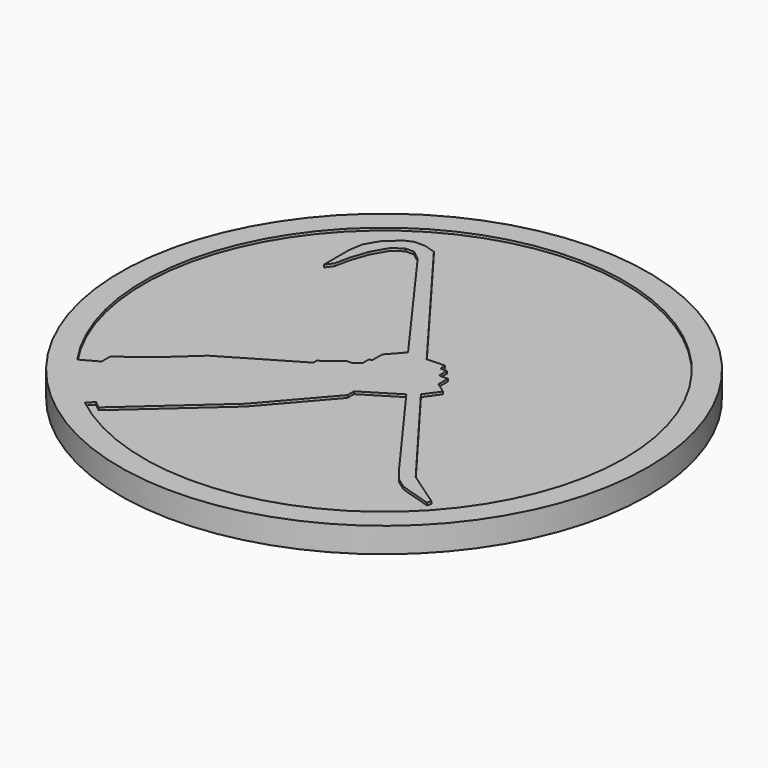
from build123d import *

# Parameters (mm, degrees)
F0_R     = 73.835319
F1_DEPTH = 7
F2_DEPTH = 6.3


with BuildPart() as f1:
    # F0 (on Top) → F1 (new body)
    with BuildSketch(Plane.XY):
        Circle(F0_R)
        with BuildLine():
            ThreePointArc((-55.352281, -38.118447), (-19.959771, 64.175529), (67.20782, 0))
            ThreePointArc((67.20782, 0), (29.467148, -60.403462), (-41.368183, -52.967579))
            ThreePointArc((-41.368183, -52.967579), (-48.926845, -46.076619), (-55.352281, -38.118447))
        make_face(mode=Mode.SUBTRACT)
        with BuildLine():
            Line((-50.618433, -35.51409), (-55.352281, -38.118447))
            ThreePointArc((-55.352281, -38.118447), (-48.926845, -46.076619), (-41.368183, -52.967579))
            Line((-41.368183, -52.967579), (-39.555106, -51.21921))
            Line((-39.555106, -51.21921), (-37.567016, -52.8697))
            Line((-37.567016, -52.8697), (-13.603393, -31.458031))
            Line((-13.603393, -31.458031), (1.234484, -14.347686))
            Line((1.234484, -14.347686), (1.234484, -12.075218))
            Line((1.234484, -12.075218), (11.05952, -6.03984))
            Line((11.05952, -6.03984), (32.11331, -34.933571))
            Line((32.11331, -34.933571), (34.920476, -38.40911))
            Line((34.920476, -38.40911), (37.861317, -40.547904))
            Line((37.861317, -40.547904), (46.550162, -43.221395))
            Line((46.550162, -43.221395), (46.899657, -42.085539))
            Line((46.899657, -42.085539), (37.076384, -35.29954))
            Line((37.076384, -35.29954), (13.533317, -4.032719))
            Line((13.533317, -4.032719), (16.463503, 0))
            Line((16.463503, 0), (13.533317, 2.129083))
            Line((13.533317, 2.129083), (13.533317, 5.39033))
            Line((13.533317, 5.39033), (11.05952, 5.39033))
            Line((11.05952, 5.39033), (11.05952, 8.130658))
            Line((11.05952, 8.130658), (9.254914, 8.130658))
            Line((9.254914, 8.130658), (9.188076, 9.868428))
            Line((9.188076, 9.868428), (4.174984, 9.675617))
            Line((4.174984, 9.675617), (-26.369359, 50.371822))
            Line((-26.369359, 50.371822), (-29.577548, 51.374383))
            Line((-29.577548, 51.374383), (-32.652061, 51.374383))
            Line((-32.652061, 51.374383), (-34.924529, 50.371822))
            Line((-34.924529, 50.371822), (-38.667418, 46.896283))
            Line((-38.667418, 46.896283), (-40.739372, 43.287069))
            Line((-40.739372, 43.287069), (-41.34091, 39.477345))
            Line((-41.34091, 39.477345), (-41.34091, 30.587986))
            Line((-41.34091, 30.587986), (-39.870489, 32.593105))
            Line((-39.870489, 32.593105), (-39.068446, 36.536504))
            Line((-39.068446, 36.536504), (-37.397511, 41.549303))
            Line((-37.397511, 41.549303), (-34.924529, 45.826886))
            Line((-34.924529, 45.826886), (-32.184202, 47.69833))
            Line((-32.184202, 47.69833), (-29.77806, 47.69833))
            Line((-29.77806, 47.69833), (-27.10457, 45.626376))
            Line((-27.10457, 45.626376), (-1.038028, 9.675617))
            Line((-1.038028, 9.675617), (-4.847753, 5.39033))
            Line((-4.847753, 5.39033), (-4.847753, 1.847953))
            Line((-4.847753, 1.847953), (-5.6498, 1.847953))
            Line((-5.6498, 1.847953), (-5.6498, -0.491352))
            Line((-5.6498, -0.491352), (-7.488666, -1.871504))
            Line((-7.488666, -1.871504), (-8.85799, -1.871504))
            Line((-8.85799, -1.871504), (-14.18264, -5.867895))
            Line((-14.18264, -5.867895), (-14.18264, -7.041406))
            Line((-14.18264, -7.041406), (-34.189317, -18.804768))
            Line((-34.189317, -18.804768), (-42.610817, -26.491057))
            Line((-42.610817, -26.491057), (-50.618433, -32.501136))
            Line((-50.618433, -32.501136), (-50.618433, -35.51409))
        make_face()
    extrude(amount=F1_DEPTH)

    # F0 (on Top) → F2 (join)
    with BuildSketch(Plane.XY):
        with BuildLine():
            ThreePointArc((-41.368183, -52.967579), (29.467148, -60.403462), (67.20782, 0))
            ThreePointArc((67.20782, 0), (-19.959771, 64.175529), (-55.352281, -38.118447))
            Line((-55.352281, -38.118447), (-50.618433, -35.51409))
            Line((-50.618433, -35.51409), (-50.618433, -32.501136))
            Line((-50.618433, -32.501136), (-42.610817, -26.491057))
            Line((-42.610817, -26.491057), (-34.189317, -18.804768))
            Line((-34.189317, -18.804768), (-14.18264, -7.041406))
            Line((-14.18264, -7.041406), (-14.18264, -5.867895))
            Line((-14.18264, -5.867895), (-8.85799, -1.871504))
            Line((-8.85799, -1.871504), (-7.488666, -1.871504))
            Line((-7.488666, -1.871504), (-5.6498, -0.491352))
            Line((-5.6498, -0.491352), (-5.6498, 1.847953))
            Line((-5.6498, 1.847953), (-4.847753, 1.847953))
            Line((-4.847753, 1.847953), (-4.847753, 5.39033))
            Line((-4.847753, 5.39033), (-1.038028, 9.675617))
            Line((-1.038028, 9.675617), (-27.10457, 45.626376))
            Line((-27.10457, 45.626376), (-29.77806, 47.69833))
            Line((-29.77806, 47.69833), (-32.184202, 47.69833))
            Line((-32.184202, 47.69833), (-34.924529, 45.826886))
            Line((-34.924529, 45.826886), (-37.397511, 41.549303))
            Line((-37.397511, 41.549303), (-39.068446, 36.536504))
            Line((-39.068446, 36.536504), (-39.870489, 32.593105))
            Line((-39.870489, 32.593105), (-41.34091, 30.587986))
            Line((-41.34091, 30.587986), (-41.34091, 39.477345))
            Line((-41.34091, 39.477345), (-40.739372, 43.287069))
            Line((-40.739372, 43.287069), (-38.667418, 46.896283))
            Line((-38.667418, 46.896283), (-34.924529, 50.371822))
            Line((-34.924529, 50.371822), (-32.652061, 51.374383))
            Line((-32.652061, 51.374383), (-29.577548, 51.374383))
            Line((-29.577548, 51.374383), (-26.369359, 50.371822))
            Line((-26.369359, 50.371822), (4.174984, 9.675617))
            Line((4.174984, 9.675617), (9.188076, 9.868428))
            Line((9.188076, 9.868428), (9.254914, 8.130658))
            Line((9.254914, 8.130658), (11.05952, 8.130658))
            Line((11.05952, 8.130658), (11.05952, 5.39033))
            Line((11.05952, 5.39033), (13.533317, 5.39033))
            Line((13.533317, 5.39033), (13.533317, 2.129083))
            Line((13.533317, 2.129083), (16.463503, 0))
            Line((16.463503, 0), (13.533317, -4.032719))
            Line((13.533317, -4.032719), (37.076384, -35.29954))
            Line((37.076384, -35.29954), (46.899657, -42.085539))
            Line((46.899657, -42.085539), (46.550162, -43.221395))
            Line((46.550162, -43.221395), (37.861317, -40.547904))
            Line((37.861317, -40.547904), (34.920476, -38.40911))
            Line((34.920476, -38.40911), (32.11331, -34.933571))
            Line((32.11331, -34.933571), (11.05952, -6.03984))
            Line((11.05952, -6.03984), (1.234484, -12.075218))
            Line((1.234484, -12.075218), (1.234484, -14.347686))
            Line((1.234484, -14.347686), (-13.603393, -31.458031))
            Line((-13.603393, -31.458031), (-37.567016, -52.8697))
            Line((-37.567016, -52.8697), (-39.555106, -51.21921))
            Line((-39.555106, -51.21921), (-41.368183, -52.967579))
        make_face()
    extrude(amount=F2_DEPTH)


solid = f1.part
